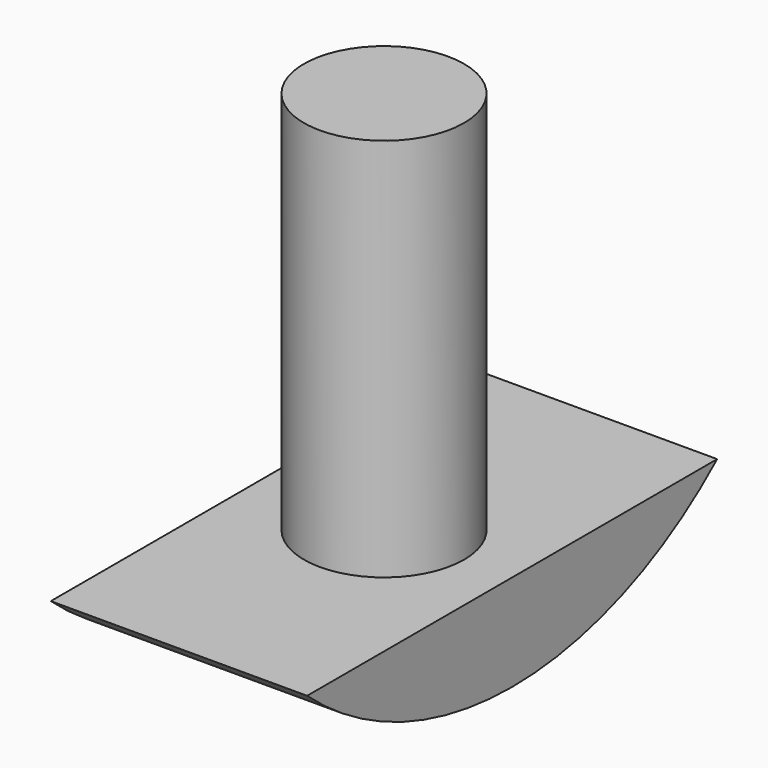
from build123d import *

# Parameters (mm, degrees)
F0_R     = 15.875
F1_DEPTH = 76.2
F3_DEPTH = 25.4
F4_DEPTH = 25.4


with BuildPart() as f1:
    # F0 (on Top) → F1 (new body)
    with BuildSketch(Plane.XY):
        Circle(F0_R)
    extrude(amount=F1_DEPTH)

    # F2 (on Right) → F3 (join)
    with BuildSketch(Plane.YZ):
        with BuildLine():
            Line((50.8, 0), (0, 0))
            Line((0, 0), (-50.8, 0))
            ThreePointArc((-50.8, 0), (0, -19.117184), (50.8, 0))
        make_face()
    extrude(amount=F3_DEPTH)

    # F2 (on Right) → F4 (join)
    with BuildSketch(Plane.YZ):
        with BuildLine():
            Line((50.8, 0), (0, 0))
            Line((0, 0), (-50.8, 0))
            ThreePointArc((-50.8, 0), (0, -19.117184), (50.8, 0))
        make_face()
    extrude(amount=-F4_DEPTH)


solid = f1.part
